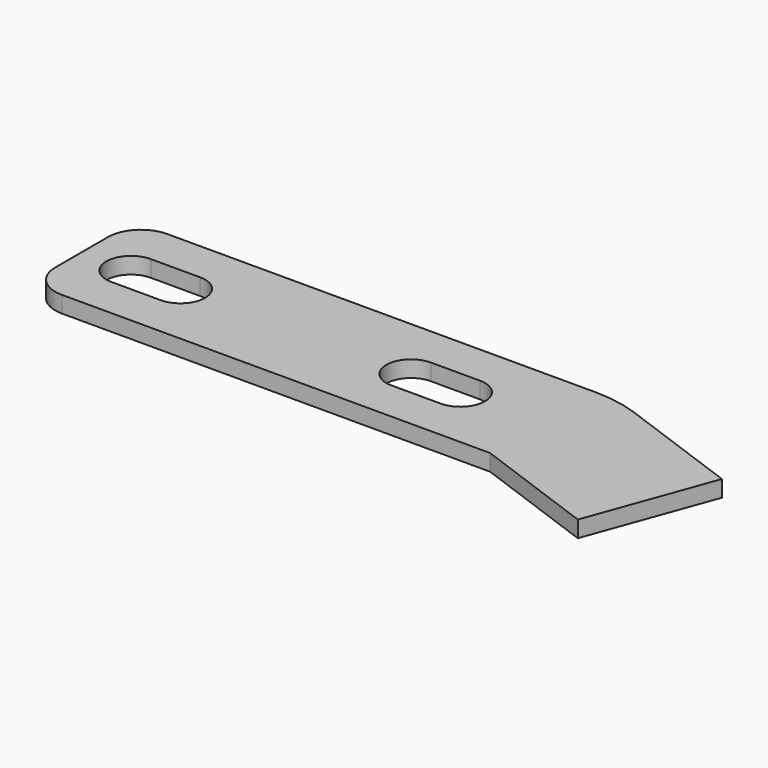
from build123d import *

# Parameters (mm, degrees)
F1_DEPTH = 6.35


with BuildPart() as f1:
    # F0 (on Top) → F1 (new body)
    with BuildSketch(Plane.XY):
        with BuildLine():
            ThreePointArc((0, 12.7), (3.719744, 3.719744), (12.7, 0))
            Line((12.7, 0), (177.8, 0))
            Line((177.8, 0), (225.536385, -17.374623))
            Line((225.536385, -17.374623), (242.911008, 30.361762))
            Line((242.911008, 30.361762), (195.174623, 47.736385))
            ThreePointArc((195.174623, 47.736385), (186.621327, 50.028234), (177.8, 50.8))
            Line((177.8, 50.8), (12.7, 50.8))
            ThreePointArc((12.7, 50.8), (3.719744, 47.080256), (0, 38.1))
            Line((0, 38.1), (0, 12.7))
        make_face()
        with BuildLine():
            ThreePointArc((19.05, 15.875), (9.525, 25.4), (19.05, 34.925))
            Line((19.05, 34.925), (38.1, 34.925))
            ThreePointArc((38.1, 34.925), (47.625, 25.4), (38.1, 15.875))
            Line((38.1, 15.875), (19.05, 15.875))
        make_face(mode=Mode.SUBTRACT)
        with BuildLine():
            ThreePointArc((127, 15.875), (117.475, 25.4), (127, 34.925))
            Line((127, 34.925), (146.05, 34.925))
            ThreePointArc((146.05, 34.925), (155.575, 25.4), (146.05, 15.875))
            Line((146.05, 15.875), (127, 15.875))
        make_face(mode=Mode.SUBTRACT)
    extrude(amount=F1_DEPTH)


solid = f1.part
